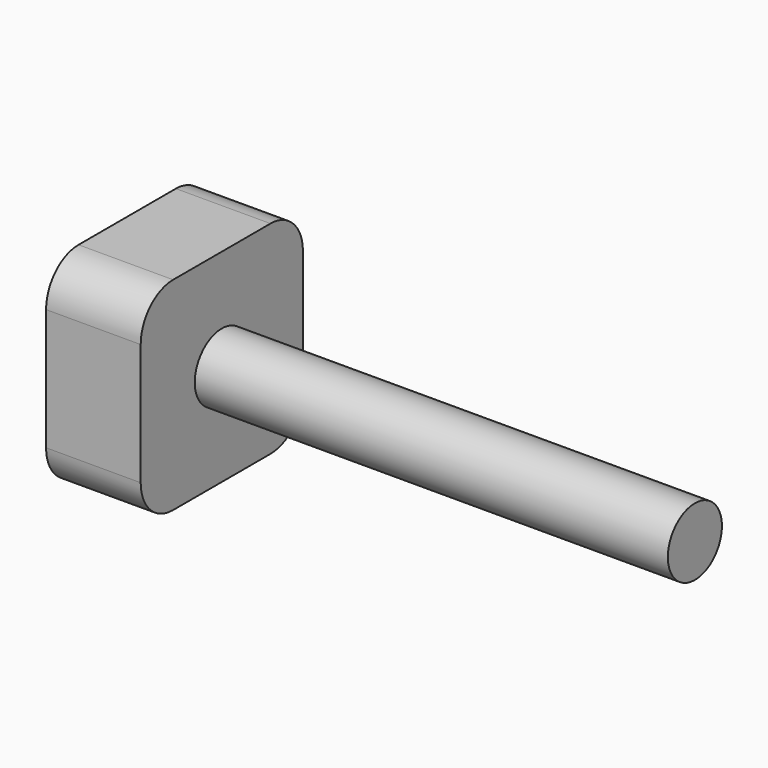
from build123d import *

# Parameters (mm, degrees)
SKETCH147_R             = 2.5
PAD077_DEPTH            = 42
SKETCH146_W             = 15
SKETCH146_H             = 15
PAD078_DEPTH            = 7
FILLET004_R             = 3
BODY044_PLACEMENT_ANGLE = 90


with BuildPart() as part:
    # Sketch147 → Pad077 (new body)
    with BuildSketch(Plane.XZ):
        Circle(SKETCH147_R)
    extrude(amount=-PAD077_DEPTH)

    # Sketch146 (on Face3 of Pad077) → Pad078 (join)
    with BuildSketch(Plane(origin=(0, 42, 0), x_dir=(1, 0, 0), z_dir=(0, 1, 0))):
        Rectangle(SKETCH146_W, SKETCH146_H)
    extrude(amount=-PAD078_DEPTH)

    # Fillet004
    fillet004_edges = [part.edges().sort_by_distance(p)[0] for p in [
        (7.5, 38.5, -7.5),
        (7.5, 38.5, 7.5),
        (-7.5, 38.5, 7.5),
        (-7.5, 38.5, -7.5),
    ]]
    fillet(fillet004_edges, radius=FILLET004_R)


with BuildPart() as part_1:
    # Body044 placement: moved
    add(part.part.moved(Location((-17.75, 0, 150))).rotate(Axis((-17.75, 0, 150), (0, 0, 1)), BODY044_PLACEMENT_ANGLE))


solid = part_1.part
